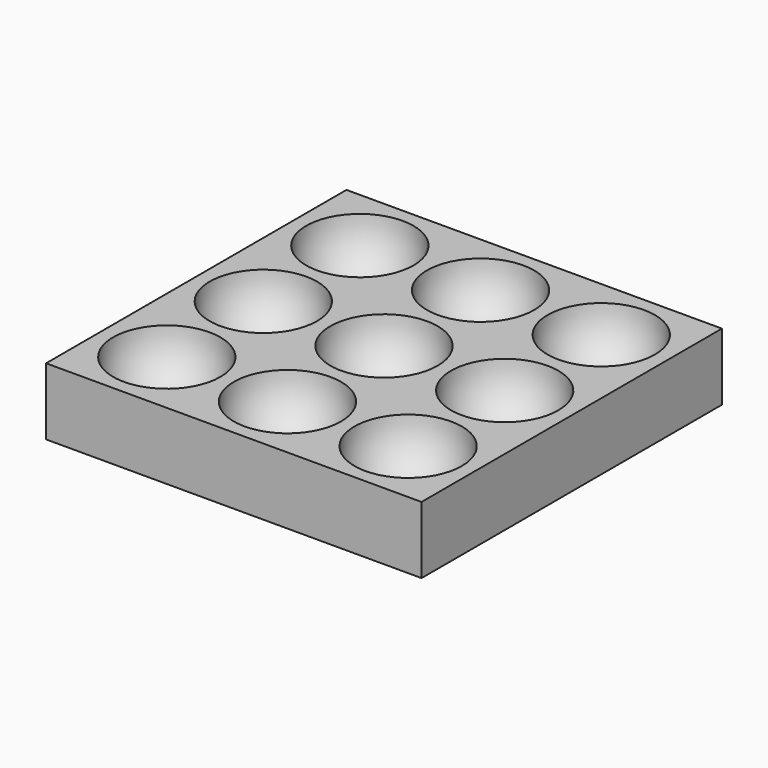
from build123d import *

# Parameters (mm, degrees)
ARRAY_X_COUNT = 3
ARRAY_X_PITCH = 18
ARRAY_Y_COUNT = 3
ARRAY_Y_PITCH = 18
BOX_W         = 56
BOX_H         = 56
BOX_DEPTH     = 10


with BuildPart() as array:
    # Sphere → Sphere (revolve)
    with BuildSketch(Plane.XZ):
        with BuildLine():
            ThreePointArc((0, -8), (8, 0), (0, 8))
            Line((0, 8), (0, -8))
        make_face()
    revolve(axis=Axis((0, 0, 0), (0, 0, 1)))

    # Array X: Array ×3


with BuildPart() as array_1:
    add(array.part)
    with Locations(*[(i * ARRAY_X_PITCH, 0, 0) for i in range(1, ARRAY_X_COUNT)]):
        add(array.part)

    # Array Y: Array ×3


with BuildPart() as array_2:
    add(array_1.part)
    with Locations(*[(0, i * ARRAY_Y_PITCH, 0) for i in range(1, ARRAY_Y_COUNT)]):
        add(array_1.part)


with BuildPart() as array_3:
    # Array placement: moved
    add(array_2.part.moved(Location((10, 10, 10))))


with BuildPart() as porta_bales:
    # Box → Box (new body)
    with BuildSketch(Plane(origin=(-10, -10, -10), x_dir=(1, 0, 0), z_dir=(0, 0, 1))):
        with Locations((28, 28)):
            Rectangle(BOX_W, BOX_H)
    extrude(amount=BOX_DEPTH)

    # Cut: cut Array
    add(array_3.part, mode=Mode.SUBTRACT)


with BuildPart() as porta_bales_1:
    # Cut placement: moved
    add(porta_bales.part.moved(Location((10, 10, 10))))

    # Cut001: cut Array
    add(array_3.part, mode=Mode.SUBTRACT)


solid = porta_bales_1.part
